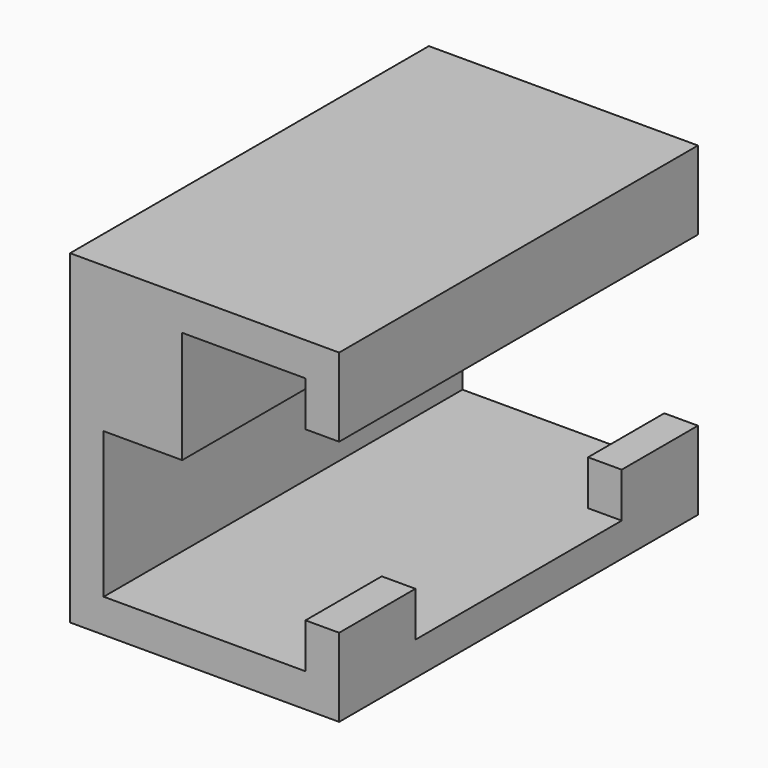
from build123d import *

# Parameters (mm, degrees)
F0_W     = 24
F0_H     = 40
F1_DEPTH = 29
F2_W     = 18
F2_H     = 23
F3_DEPTH = 61.722
F4_W     = 3
F4_H     = 15
F5_DEPTH = 55.626
F6_W     = 23
F6_H     = 4
F7_DEPTH = 5.334
F8_W     = 7
F8_H     = 10
F9_DEPTH = 40


with BuildPart() as f1:
    # F0 (on Top) → F1 (new body)
    with BuildSketch(Plane.XY):
        Rectangle(F0_W, F0_H)
    extrude(amount=F1_DEPTH)

    # F2 (on face) → F3 (cut)
    with BuildSketch(Plane.XZ.offset(20)):
        with Locations((0, 14.5)):
            Rectangle(F2_W, F2_H)
    extrude(amount=-F3_DEPTH, mode=Mode.SUBTRACT)

    # F4 (on face) → F5 (cut)
    with BuildSketch(Plane.XZ.offset(20)):
        with Locations((10.5, 14.5)):
            Rectangle(F4_W, F4_H)
    extrude(amount=-F5_DEPTH, mode=Mode.SUBTRACT)

    # F6 (on face) → F7 (cut)
    with BuildSketch(Plane.YZ.offset(12)):
        with Locations((0, 5)):
            Rectangle(F6_W, F6_H)
    extrude(amount=-F7_DEPTH, mode=Mode.SUBTRACT)

    # F8 (on face) → F9 (join)
    with BuildSketch(Plane.XZ.offset(20)):
        with Locations((-5.5, 21)):
            Rectangle(F8_W, F8_H)
    extrude(amount=-F9_DEPTH)


solid = f1.part
